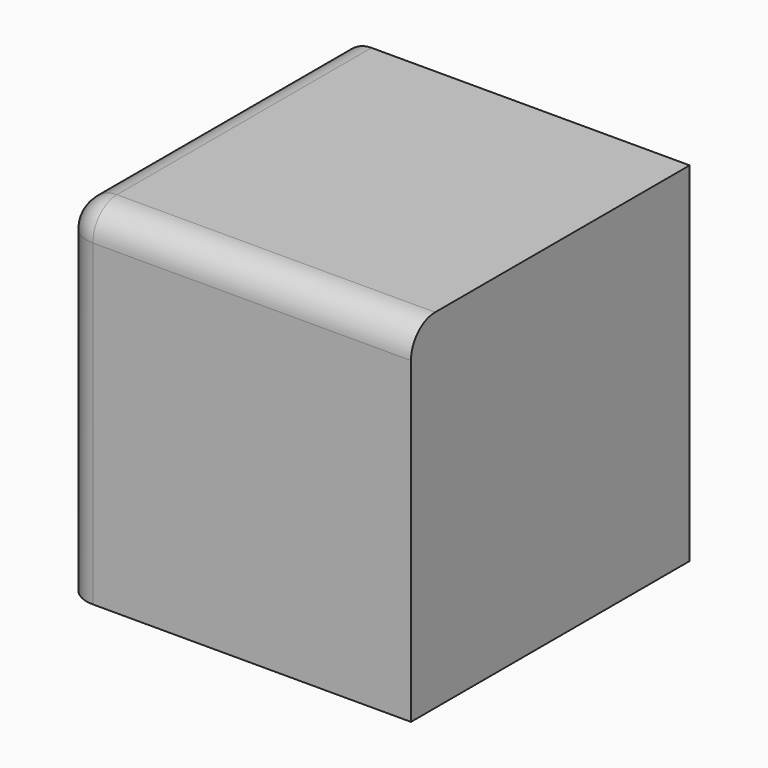
from build123d import *

# Parameters (mm, degrees)
SKETCH060_W             = 41.021
SKETCH060_H             = 41.021
PAD050_DEPTH            = 41.021
SKETCH059_W             = 25.908
SKETCH059_H             = 25.908
PAD049_DEPTH            = 6.35
FILLET005_R             = 3.556
FILLET004_R             = 3.556
BODY041_PLACEMENT_ANGLE = 270


with BuildPart() as part:
    # Sketch060 → Pad050 (new body)
    with BuildSketch(Plane.XZ):
        with Locations((20.5105, 20.5105)):
            Rectangle(SKETCH060_W, SKETCH060_H)
    extrude(amount=PAD050_DEPTH)

    # Sketch059 (on Face3 of Pad050) → Pad049 (join)
    with BuildSketch(Plane(origin=(0, 0, 0), x_dir=(1, 0, 0), z_dir=(0, 0, -1))):
        with Locations((20.507403, 20.507403)):
            Rectangle(SKETCH059_W, SKETCH059_H)
    extrude(amount=PAD049_DEPTH)

    # Fillet005
    fillet005_edges = [part.edges().sort_by_distance(p)[0] for p in [
        (7.553403, -20.507403, -6.35),
        (20.507403, -33.461403, -6.35),
        (20.507403, -7.553403, -6.35),
        (33.461403, -20.507403, -6.35),
    ]]
    fillet(fillet005_edges, radius=FILLET005_R)

    # Fillet004
    fillet004_edges = [part.edges().sort_by_distance(p)[0] for p in [
        (20.5105, -41.021, 41.021),
        (41.021, -41.021, 20.5105),
        (41.021, -20.5105, 41.021),
    ]]
    fillet(fillet004_edges, radius=FILLET004_R)


with BuildPart() as part_1:
    # Body041 placement: moved
    add(part.part.moved(Location((-1870.402819, -1260.805597, 2459.1772))).rotate(Axis((-1870.402819, -1260.805597, 2459.1772), (0, 0, 1)), BODY041_PLACEMENT_ANGLE))


solid = part_1.part
